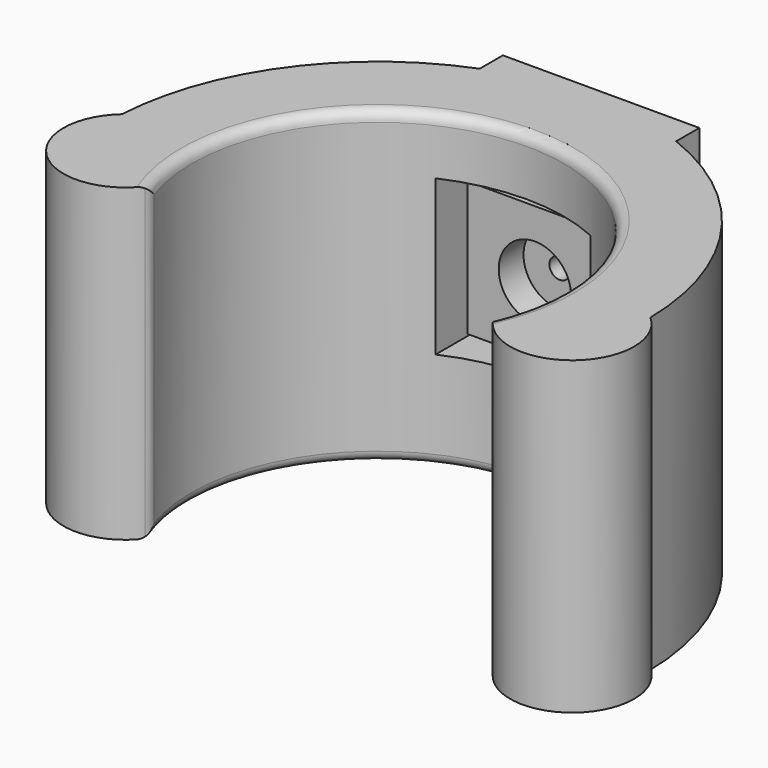
from build123d import *

# Parameters (mm, degrees)
CONE_ROLL_ANGLE             = 90
CYLINDER_R                  = 1
CYLINDER_DEPTH              = 3
CYLINDER_ROLL_ANGLE         = 90
CYLINDER005_R               = 3.5
CYLINDER005_DEPTH           = 3
CYLINDER005_ROLL_ANGLE      = 90
BOX_W                       = 1
BOX_H                       = 10
BOX_DEPTH                   = 10
BOX002_W                    = 13
BOX002_H                    = 5
BOX002_DEPTH                = 13
CYLINDER002_R               = 2.4
CYLINDER002_DEPTH           = 13
CYLINDER002_ROLL_ANGLE      = 90
CYLINDER006_R               = 18
CYLINDER006_DEPTH           = 32
CYLINDER010_R               = 3
CYLINDER010_DEPTH           = 13
CYLINDER010_ROLL_ANGLE      = 90
BOX003_W                    = 15
BOX003_H                    = 8
BOX003_DEPTH                = 15
CYLINDER009_R               = 6
CYLINDER009_DEPTH           = 30
CYLINDER007_W               = 26
CYLINDER007_H               = 30
CYLINDER007_ANGLE           = 201
CYLINDER007_PLACEMENT_ANGLE = -11
BOX004_W                    = 19
BOX004_H                    = 3
BOX004_DEPTH                = 30
CYLINDER008_R               = 6
CYLINDER008_DEPTH           = 30
FILLET_R                    = 1


with BuildPart() as screw_guide:
    # Cone → Cone (revolve)
    with BuildSketch(Plane.XZ):
        Polygon((0, 0), (0.5, 0), (1.5, 7), (0, 7), align=None)
    revolve(axis=Axis((0, 0, 0), (0, 0, 1)))


with BuildPart() as screw_guide_1:
    # Cone roll: moved
    add(screw_guide.part.rotate(Axis((0, 0, 0), (1, 0, 0)), CONE_ROLL_ANGLE))


with BuildPart() as screw_guide_2:
    # Cone placement: moved
    add(screw_guide_1.part.moved(Location((18, 69, 6))))


with BuildPart() as hole:
    # Cylinder → Cylinder (new body)
    with BuildSketch(Plane.XY):
        Circle(CYLINDER_R)
    extrude(amount=CYLINDER_DEPTH)


with BuildPart() as hole_1:
    # Cylinder roll: moved
    add(hole.part.rotate(Axis((0, 0, 0), (1, 0, 0)), CYLINDER_ROLL_ANGLE))


with BuildPart() as hole_2:
    # Cylinder placement: moved
    add(hole_1.part.moved(Location((18, 62, 6))))


with BuildPart() as screw_head_seat:
    # Cylinder005 → Cylinder005 (new body)
    with BuildSketch(Plane.XY):
        Circle(CYLINDER005_R)
    extrude(amount=CYLINDER005_DEPTH)


with BuildPart() as screw_head_seat_1:
    # Cylinder005 roll: moved
    add(screw_head_seat.part.rotate(Axis((0, 0, 0), (1, 0, 0)), CYLINDER005_ROLL_ANGLE))


with BuildPart() as screw_head_seat_2:
    # Cylinder005 placement: moved
    add(screw_head_seat_1.part.moved(Location((18, 59, 6))))


with BuildPart() as hole_and_cut:
    # Box → Box (new body)
    with BuildSketch(Plane(origin=(17.5, 62, 1), x_dir=(1, 0, 0), z_dir=(0, 0, 1))):
        with Locations((0.5, 5)):
            Rectangle(BOX_W, BOX_H)
    extrude(amount=BOX_DEPTH)

    # Fusion: union screw guide, hole, screw head seat
    add(screw_guide_2.part)
    add(hole_2.part)
    add(screw_head_seat_2.part)


with BuildPart() as squared_washer:
    # Box002 → Box002 (new body)
    with BuildSketch(Plane(origin=(11.5, 56, -0.5), x_dir=(1, 0, 0), z_dir=(0, 0, 1))):
        with Locations((6.5, 2.5)):
            Rectangle(BOX002_W, BOX002_H)
    extrude(amount=BOX002_DEPTH)


with BuildPart() as anchor_with_hole_and_cut:
    # Cylinder002 → Cylinder002 (new body)
    with BuildSketch(Plane.XY):
        Circle(CYLINDER002_R)
    extrude(amount=CYLINDER002_DEPTH)


with BuildPart() as anchor_with_hole_and_cut_1:
    # Cylinder002 roll: moved
    add(anchor_with_hole_and_cut.part.rotate(Axis((0, 0, 0), (1, 0, 0)), CYLINDER002_ROLL_ANGLE))


with BuildPart() as anchor_with_hole_and_cut_2:
    # Cylinder002 placement: moved
    add(anchor_with_hole_and_cut_1.part.moved(Location((18, 72, 6))))

    # Fusion001: union squared washer
    add(squared_washer.part)

    # Cut: cut hole and cut
    add(hole_and_cut.part, mode=Mode.SUBTRACT)


with BuildPart() as vacuum_cleaner_tube_template:
    # Cylinder006 → Cylinder006 (new body)
    with BuildSketch(Plane(origin=(18, 37, -12), x_dir=(1, 0, 0), z_dir=(0, 0, 1))):
        Circle(CYLINDER006_R)
    extrude(amount=CYLINDER006_DEPTH)


with BuildPart() as anchor_pin_seat:
    # Cylinder010 → Cylinder010 (new body)
    with BuildSketch(Plane.XY):
        Circle(CYLINDER010_R)
    extrude(amount=CYLINDER010_DEPTH)


with BuildPart() as anchor_pin_seat_1:
    # Cylinder010 roll: moved
    add(anchor_pin_seat.part.rotate(Axis((0, 0, 0), (1, 0, 0)), CYLINDER010_ROLL_ANGLE))


with BuildPart() as anchor_pin_seat_2:
    # Cylinder010 placement: moved
    add(anchor_pin_seat_1.part.moved(Location((18, 72, 6))))


with BuildPart() as holes:
    # Box003 → Box003 (new body)
    with BuildSketch(Plane(origin=(10.5, 53, -1.5), x_dir=(1, 0, 0), z_dir=(0, 0, 1))):
        with Locations((7.5, 4)):
            Rectangle(BOX003_W, BOX003_H)
    extrude(amount=BOX003_DEPTH)

    # Fusion003: union vacuum cleaner tube template, anchor pin seat
    add(vacuum_cleaner_tube_template.part)
    add(anchor_pin_seat_2.part)


with BuildPart() as cylinder009:
    # Cylinder009 → Cylinder009 (new body)
    with BuildSketch(Plane(origin=(40, 33, -11), x_dir=(1, 0, 0), z_dir=(0, 0, 1))):
        Circle(CYLINDER009_R)
    extrude(amount=CYLINDER009_DEPTH)


with BuildPart() as arms:
    # Cylinder007 → Cylinder007 (revolve)
    with BuildSketch(Plane.XZ):
        with Locations((13, 15)):
            Rectangle(CYLINDER007_W, CYLINDER007_H)
    revolve(axis=Axis((0, 0, 0), (0, 0, 1)), revolution_arc=CYLINDER007_ANGLE)


with BuildPart() as arms_1:
    # Cylinder007 placement: moved
    add(arms.part.moved(Location((18, 37, -11))).rotate(Axis((18, 37, -11), (0, 0, 1)), CYLINDER007_PLACEMENT_ANGLE))


with BuildPart() as stabilizer_shim:
    # Box004 → Box004 (new body)
    with BuildSketch(Plane(origin=(8.5, 61, -11), x_dir=(1, 0, 0), z_dir=(0, 0, 1))):
        with Locations((9.5, 1.5)):
            Rectangle(BOX004_W, BOX004_H)
    extrude(amount=BOX004_DEPTH)


with BuildPart() as holder_with_holes_and_fillets:
    # Cylinder008 → Cylinder008 (new body)
    with BuildSketch(Plane(origin=(-4, 34, -11), x_dir=(1, 0, 0), z_dir=(0, 0, 1))):
        Circle(CYLINDER008_R)
    extrude(amount=CYLINDER008_DEPTH)

    # Fusion002: union Cylinder009, arms, stabilizer shim
    add(cylinder009.part)
    add(arms_1.part)
    add(stabilizer_shim.part)

    # Cut001: cut holes
    add(holes.part, mode=Mode.SUBTRACT)

    # Fillet
    fillet_edges = [holder_with_holes_and_fillets.edges().sort_by_distance(p)[0] for p in [
        (1.091877, 30.826234, 4),
        (0.615735, 32.332312, 19),
        (0.615735, 32.332312, -11),
        (35.25449, 31.873348, 19),
        (35.25449, 31.873348, -11),
        (34.678052, 30.229284, 4),
    ]]
    fillet(fillet_edges, radius=FILLET_R)


solid = Compound([anchor_with_hole_and_cut_2.part, holder_with_holes_and_fillets.part])
